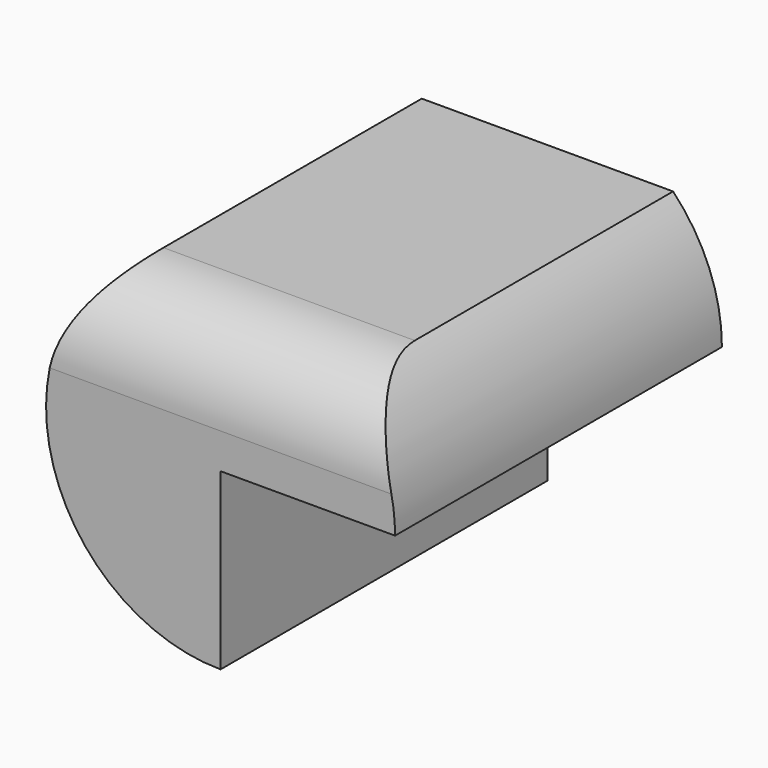
from build123d import *

# Parameters (mm, degrees)
F1_DEPTH = 121.158
F2_R     = 25.4


with BuildPart() as f1:
    # F0 (on Front) → F1 (new body)
    with BuildSketch(Plane.XZ):
        with BuildLine():
            Line((24.5343538996, 51.4227636158), (-49.995383161, 51.4227636158))
            ThreePointArc((-49.995383161, 51.4227636158), (-60.3509792514, -4.7259186533), (-12.7305146307, -36.2251922997))
            Line((-12.7305146307, -36.2251922997), (-12.7305146307, 15.5206499621))
            Line((-12.7305146307, 15.5206499621), (39.0153276312, 15.5206499621))
            ThreePointArc((39.0153276312, 15.5206499621), (35.2587247896, 34.876917455), (24.5343538996, 51.4227636158))
        make_face()
    extrude(amount=F1_DEPTH)

    # F2
    f2_edges = [f1.edges().sort_by_distance(p)[0] for p in [
        (-12.730515, -121.158, 51.422764),
    ]]
    fillet(f2_edges, radius=F2_R)


solid = f1.part
